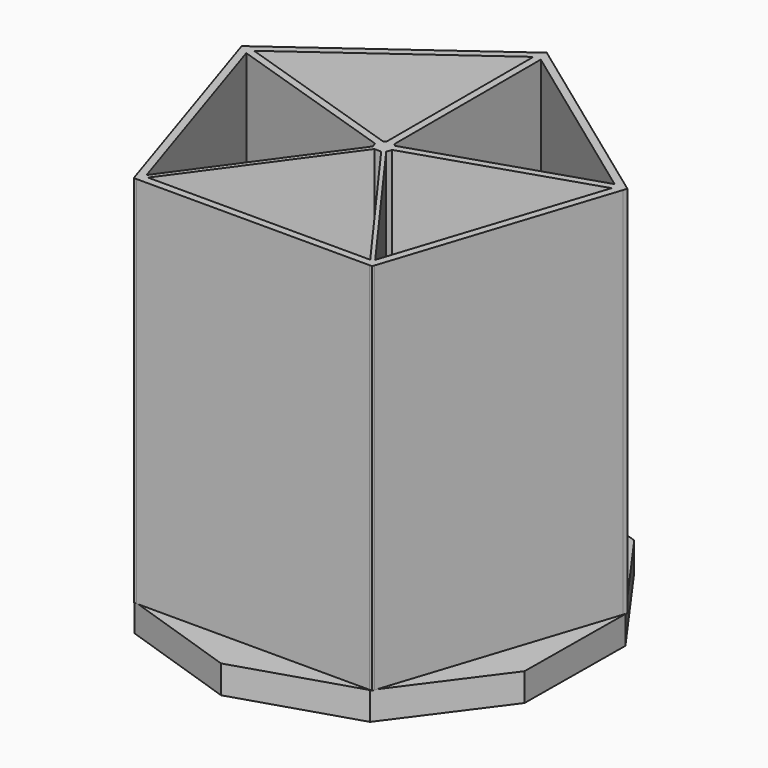
from build123d import *

# Parameters (mm, degrees)
F1_DEPTH = 101.6
F3_DEPTH = 7.62


with BuildPart() as f1:
    # F0 (on Top) → F1 (new body)
    with BuildSketch(Plane.XY):
        Polygon((1.007135, 2.090003), (1.007135, 51.900107), (-0.983909, 51.876503), (-1.0051, 2.090003), (0.00407, 2.820986), align=None)
        Polygon((52.457931, 17.016923), (51.435437, 17.760554), (49.010532, 16.973795), (49.67954, 15.127026), (52.098265, 15.911781), align=None)
        Polygon((-1.665072, 1.611959), (-49.016407, 17.019628), (-49.671557, 15.169454), (-2.321688, -0.237738), (-2.68166, 0.875603), align=None)
        Polygon((-49.016407, 17.019628), (-51.426483, 17.803844), (-52.441647, 17.067025), (-52.080348, 15.953252), (-49.671557, 15.169454), align=None)
        Polygon((49.67954, 15.127026), (49.010532, 16.973795), (1.663114, 1.611959), (2.684175, 0.867862), (2.323179, -0.237738), align=None)
        Polygon((1.663114, 1.611959), (1.007135, 2.090003), (0.00407, 2.820986), (-1.0051, 2.090003), (-1.665072, 1.611959), (-2.68166, 0.875603), (-2.321688, -0.237738), (-1.891828, -1.567235), (-1.661426, -2.279834), (-0.896572, -2.280937), (0.970708, -2.283631), (1.654842, -2.284618), (1.849318, -1.689005), (2.323179, -0.237738), (2.684175, 0.867862), align=None)
        Polygon((-0.983909, 51.876503), (-0.982828, 54.416503), (-51.426483, 17.803844), (-49.016407, 17.019628), align=None)
        Polygon((51.435437, 17.760554), (1.007135, 54.435669), (1.007135, 51.900107), (49.010532, 16.973795), align=None)
        Polygon((31.710784, -44.631538), (30.218665, -42.575976), (-30.193032, -42.554206), (-31.682195, -44.601329), align=None)
        Polygon((30.218665, -42.575976), (31.085375, -41.964973), (1.849318, -1.689005), (1.654842, -2.284618), (0.970708, -2.283631), align=None)
        Polygon((32.588472, -44.035659), (52.098265, 15.911781), (49.67954, 15.127026), (31.085375, -41.964973), align=None)
        Polygon((-49.671557, 15.169454), (-52.080348, 15.953252), (-32.667992, -43.889094), (-31.17694, -41.838673), align=None)
        Polygon((-1.891828, -1.567235), (-31.17694, -41.838673), (-30.193032, -42.554206), (-0.896572, -2.280937), (-1.661426, -2.279834), align=None)
        Polygon((1.007135, 54.435669), (0.026342, 55.148972), (-0.982828, 54.416503), (-0.983909, 51.876503), (1.007135, 51.900107), align=None)
        Polygon((-31.17694, -41.838673), (-32.667992, -43.889094), (-32.437065, -44.600969), (-31.682195, -44.601329), (-30.193032, -42.554206), align=None)
        Polygon((32.394438, -44.631864), (32.588472, -44.035659), (31.085375, -41.964973), (30.218665, -42.575976), (31.710784, -44.631538), align=None)
    extrude(amount=F1_DEPTH)

    # F2 (on Top) → F3 (join)
    with BuildSketch(Plane.XY):
        Polygon((-0.484477, -54.871911), (31.86095, -44.677077), (52.036577, -17.417118), (52.336, 16.495588), (32.64485, 44.10754), (0.484477, 54.871911), (-31.86095, 44.677077), (-52.036577, 17.417118), (-52.336, -16.495588), (-32.64485, -44.10754), align=None)
    extrude(amount=-F3_DEPTH)


solid = f1.part
